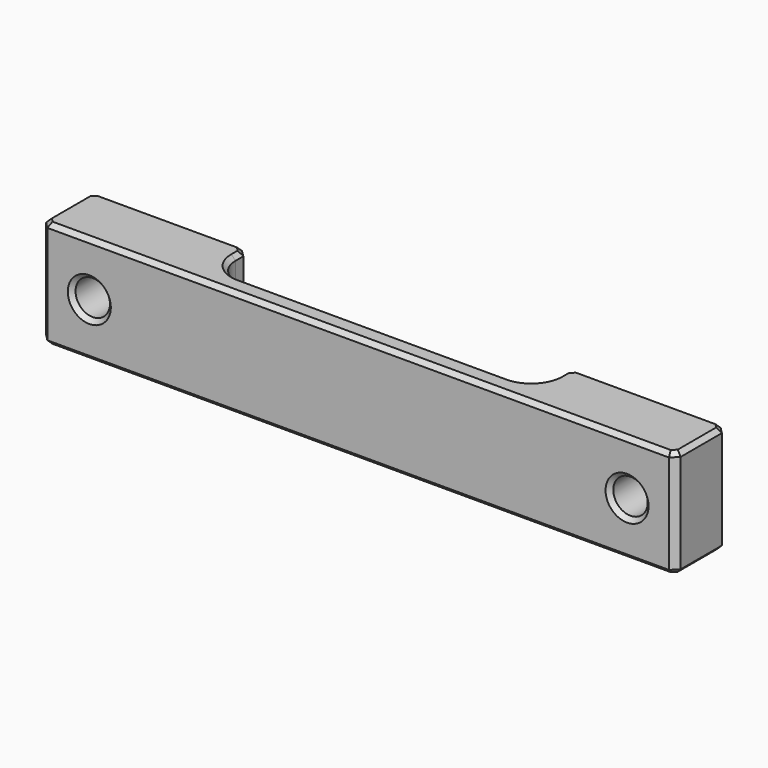
from build123d import *

# Parameters (mm, degrees)
SKETCH134_W     = 59
SKETCH134_H     = 10
SKETCH134_R     = 1.6
PAD068_DEPTH    = 6
SKETCH135_W     = 30
SKETCH135_H     = 4
POCKET066_DEPTH = 7.5
FILLET048_R     = 2.5
CHAMFER053_SIZE = 0.6
CHAMFER054_SIZE = 0.4
CHAMFER055_SIZE = 0.4


with BuildPart() as part:
    # Sketch134 → Pad068 (new body)
    with BuildSketch(Plane.XZ):
        Rectangle(SKETCH134_W, SKETCH134_H)
        with Locations((-25, 0)):
            Circle(SKETCH134_R, mode=Mode.SUBTRACT)
        with Locations((25, 0)):
            Circle(SKETCH134_R, mode=Mode.SUBTRACT)
    extrude(amount=PAD068_DEPTH)

    # Sketch135 → Pocket066 (cut, symmetric)
    with BuildSketch(Plane.XY):
        with Locations((0, -2)):
            Rectangle(SKETCH135_W, SKETCH135_H)
    extrude(amount=POCKET066_DEPTH, both=True, mode=Mode.SUBTRACT)

    # Fillet048
    fillet048_edges = [part.edges().sort_by_distance(p)[0] for p in [
        (15, -4, 0),
        (-15, -4, 0),
    ]]
    fillet(fillet048_edges, radius=FILLET048_R)

    # Chamfer053
    chamfer053_edges = [part.edges().sort_by_distance(p)[0] for p in [
        (15, 0, 0),
        (-15, 0, 0),
        (29.5, 0, 0),
        (29.5, -6, 0),
        (-29.5, -6, 0),
        (-29.5, 0, 0),
    ]]
    chamfer(chamfer053_edges, length=CHAMFER053_SIZE)

    # Chamfer054
    chamfer054_edges = [part.edges().sort_by_distance(p)[0] for p in [
        (26.6, -3, 0),
        (23.4, 0, 0),
        (23.4, -6, 0),
        (-23.4, -3, 0),
        (-26.6, 0, 0),
        (-26.6, -6, 0),
    ]]
    chamfer(chamfer054_edges, length=CHAMFER054_SIZE)

    # Chamfer055
    chamfer055_edges = [part.edges().sort_by_distance(p)[0] for p in [
        (-15, -1.05, 5),
        (-15.3, -0.3, 5),
        (-14.267767, -3.267767, 5),
        (-22.25, 0, 5),
        (0, -4, 5),
        (-29.2, -0.3, 5),
        (14.267767, -3.267767, 5),
        (-29.5, -3, 5),
        (15, -1.05, 5),
        (-29.2, -5.7, 5),
        (15.3, -0.3, 5),
        (0, -6, 5),
        (22.25, 0, 5),
        (29.2, -5.7, 5),
        (29.2, -0.3, 5),
        (29.5, -3, 5),
        (15, -1.05, -5),
        (15.3, -0.3, -5),
        (14.267767, -3.267767, -5),
        (22.25, 0, -5),
        (0, -4, -5),
        (29.2, -0.3, -5),
        (-14.267767, -3.267767, -5),
        (29.5, -3, -5),
        (-15, -1.05, -5),
        (29.2, -5.7, -5),
        (-15.3, -0.3, -5),
        (0, -6, -5),
        (-22.25, 0, -5),
        (-29.2, -5.7, -5),
        (-29.2, -0.3, -5),
        (-29.5, -3, -5),
    ]]
    chamfer(chamfer055_edges, length=CHAMFER055_SIZE)


with BuildPart() as part_1:
    # Body051 placement: moved
    add(part.part.moved(Location((0, -73, 55))))


solid = part_1.part
